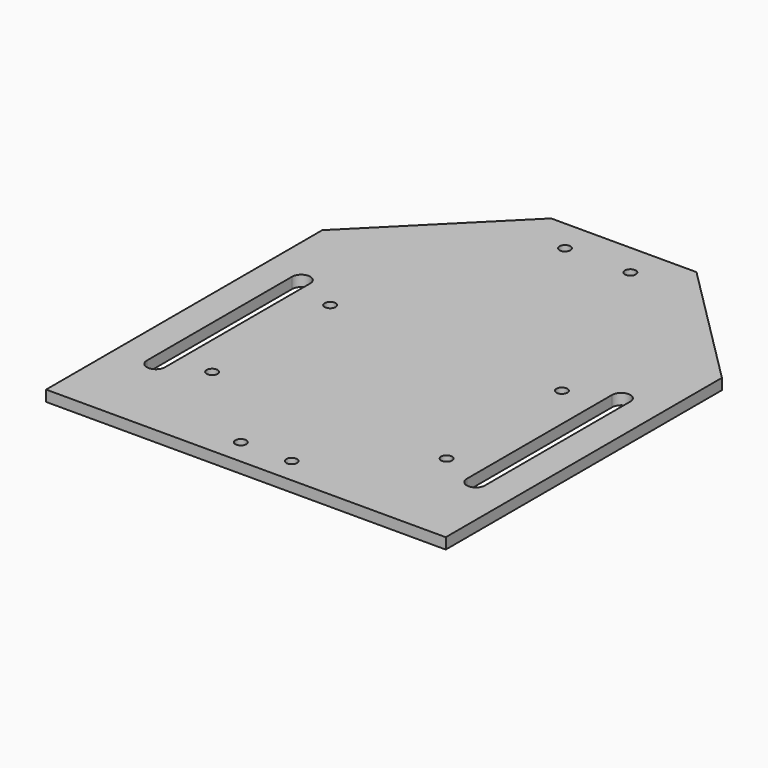
from build123d import *

# Parameters (mm, degrees)
F0_W      = 55
F0_H      = 130
F1_DEPTH  = 3
F2_SIZE   = 35
F4_DEPTH  = 34.03176
F6_D      = 3
F8_D      = 3
F9_R      = 1.5
F10_DEPTH = 25
F11_R     = 1.5
F12_DEPTH = 25


with BuildPart() as f1:
    # F0 (on Top) → F1 (new body)
    with BuildSketch(Plane.XY):
        with Locations((27.5, 65)):
            Rectangle(F0_W, F0_H)
    extrude(amount=F1_DEPTH)

    # F2
    f2_edges = [f1.edges().sort_by_distance(p)[0] for p in [
        (55, 130, 1.5),
    ]]
    chamfer(f2_edges, length=F2_SIZE)

    # F3 (on face) → F4 (cut)
    with BuildSketch(Plane.XY.offset(3)):
        with BuildLine():
            ThreePointArc((46.534898, 74.060881), (44.034898, 76.560881), (41.534898, 74.060881))
            Line((41.534898, 74.060881), (41.534898, 24.060881))
            ThreePointArc((41.534898, 24.060881), (44.034898, 21.560881), (46.534898, 24.060881))
            Line((46.534898, 24.060881), (46.534898, 74.060881))
        make_face()
    extrude(amount=-F4_DEPTH, mode=Mode.SUBTRACT)

    # F6 (through all)
    with Locations(Plane.XY.offset(3)):
        with Locations((31.894885, 68.837039)):
            Hole(F6_D / 2)

    # F8 (through all)
    with Locations(Plane.XY.offset(3)):
        with Locations((32.258615, 28.699279)):
            Hole(F8_D / 2)

    # F9 (on face) → F10 (cut)
    with BuildSketch(Plane(origin=(0, 0, 0), x_dir=(1, 0, 0), z_dir=(0, 0, -1))):
        with Locations((7, -7)):
            Circle(F9_R)
    extrude(amount=-F10_DEPTH, mode=Mode.SUBTRACT)

    # F11 (on face) → F12 (cut)
    with BuildSketch(Plane.XY.offset(3)):
        with Locations((9, 121)):
            Circle(F11_R)
    extrude(amount=-F12_DEPTH, mode=Mode.SUBTRACT)

    # F14: F1 across plane


with BuildPart() as f1_1:
    add(f1.part)
    add(f1.part.mirror(Plane.YZ))


solid = f1_1.part
